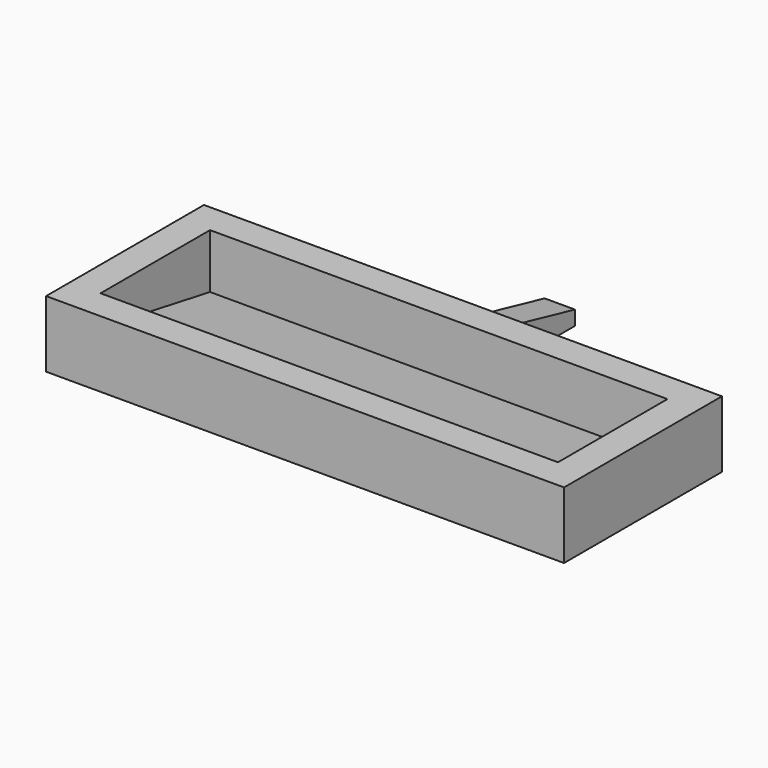
from build123d import *

# Parameters (mm, degrees)
F0_W     = 75.57
F0_H     = 22.6
F1_DEPTH = 2
F0_W_2   = 5
F0_H_2   = 20
F2_DEPTH = 11
F4_DEPTH = 75.57
F6_DEPTH = 25


with BuildPart() as f1:
    # F0 (on Top) → F1 (new body)
    with BuildSketch(Plane.XY):
        with Locations((37.785, -11.3)):
            Rectangle(F0_W, F0_H)
    extrude(amount=F1_DEPTH)

    # F0 (on Top) → F2 (join)
    with BuildSketch(Plane.XY):
        Polygon((35.285, 5), (-5, 5), (-5, -27.6), (80.57, -27.6), (80.57, 5), (40.285, 5), align=None)
        with Locations((37.785, -11.3)):
            Rectangle(F0_W, F0_H, mode=Mode.SUBTRACT)
        with Locations((37.785, 15)):
            Rectangle(F0_W_2, F0_H_2)
    extrude(amount=F2_DEPTH)

    # F3 (on face) → F4 (join, through all)
    with BuildSketch(Plane(origin=(75.57, 0, 0), x_dir=(0, -1, 0), z_dir=(-1, 0, 0))):
        Polygon((22.6, 6), (0, 2), (22.6, 2), align=None)
    extrude(amount=F4_DEPTH)

    # F5 (on face) → F6 (cut)
    with BuildSketch(Plane.YZ.offset(40.285)):
        Polygon((5, 6.94435), (25, 2.385827), (25, 11), (5, 11), align=None)
    extrude(amount=-F6_DEPTH, mode=Mode.SUBTRACT)


solid = f1.part
